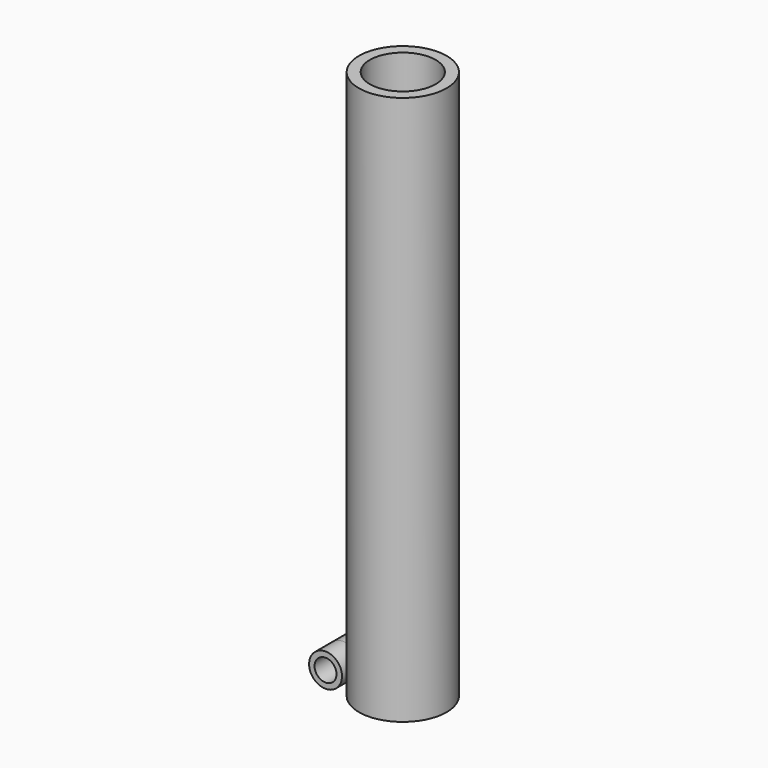
from build123d import *

# Parameters (mm, degrees)
F0_R          = 12.7
F0_R_2        = 9.525
F1_DEPTH      = 158.98622
F2_R          = 4.7625
F2_R_2        = 3.175
F3_DEPTH      = 6.35
F3_DEPTH_BACK = 6.35


with BuildPart() as f1:
    # F0 (on Top) → F1 (new body)
    with BuildSketch(Plane.XY):
        Circle(F0_R)
        Circle(F0_R_2, mode=Mode.SUBTRACT)
    extrude(amount=F1_DEPTH)

    # F2 (on Front) → F3 (join, two sides)
    with BuildSketch(Plane.XZ) as f3_sk:
        with Locations((-17.27381, 3.554616)):
            Circle(F2_R)
        with Locations((-17.27381, 3.554616)):
            Circle(F2_R_2, mode=Mode.SUBTRACT)
    extrude(amount=F3_DEPTH)
    extrude(f3_sk.sketch, amount=-F3_DEPTH_BACK)


solid = f1.part
